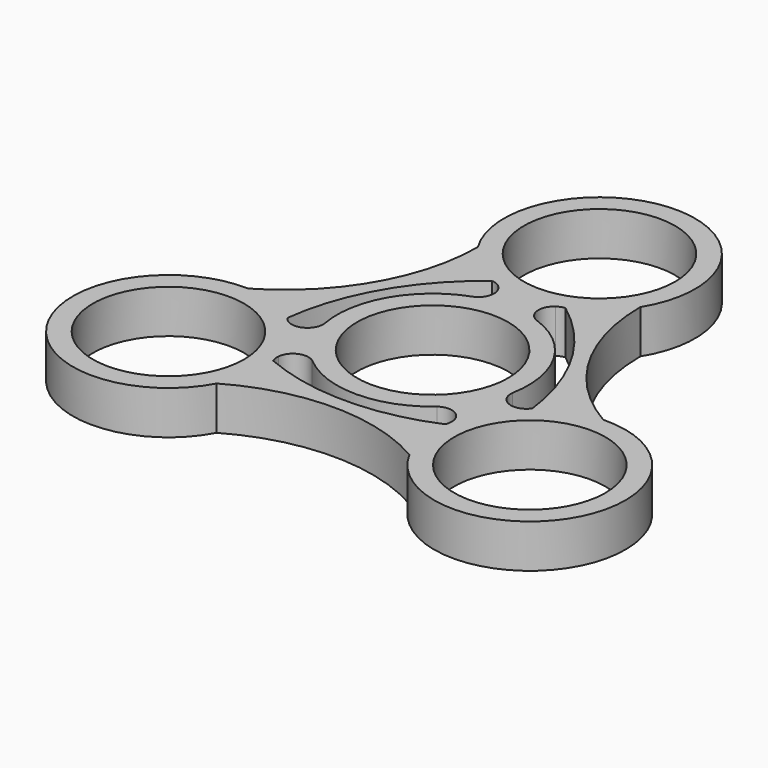
from build123d import *

# Parameters (mm, degrees)
F0_R     = 11.049
F1_DEPTH = 6.35


with BuildPart() as f1:
    # F0 (on Top) → F1 (new body)
    with BuildSketch(Plane.XY):
        with BuildLine():
            ThreePointArc((-14.078526, -21.830109), (0, -18.069067), (14.078526, -21.830109))
            ThreePointArc((14.078526, -21.830109), (38.494829, -22.225), (25.944692, -1.277306))
            ThreePointArc((25.944692, -1.277306), (15.648271, 9.034534), (11.866166, 23.107415))
            ThreePointArc((11.866166, 23.107415), (0, 44.45), (-11.866166, 23.107415))
            ThreePointArc((-11.866166, 23.107415), (-15.648271, 9.034534), (-25.944692, -1.277306))
            ThreePointArc((-25.944692, -1.277306), (-38.494829, -22.225), (-14.078526, -21.830109))
        make_face()
        with Locations((-26.396454, -15.24)):
            Circle(F0_R, mode=Mode.SUBTRACT)
        with BuildLine():
            ThreePointArc((-4.208703, 17.15905), (-3.25535, 15.05507), (-4.613117, 13.186358))
            ThreePointArc((-4.613117, 13.186358), (-12.098375, 6.985), (-13.72628, -2.598103))
            ThreePointArc((-13.72628, -2.598103), (-14.665748, -4.708319), (-16.964525, -4.934681))
            ThreePointArc((-16.964525, -4.934681), (-17.48494, -4.606139), (-17.89943, -4.1512))
            ThreePointArc((-17.89943, -4.1512), (-13.85397, 7.998594), (-5.354671, 17.576961))
            ThreePointArc((-5.354671, 17.576961), (-4.753437, 17.445472), (-4.208703, 17.15905))
        make_face(mode=Mode.SUBTRACT)
        with BuildLine():
            ThreePointArc((12.54476, -13.425761), (0, -15.997187), (-12.54476, -13.425761))
            ThreePointArc((-12.54476, -13.425761), (-12.731503, -12.839333), (-12.755821, -12.224369))
            ThreePointArc((-12.755821, -12.224369), (-11.410398, -10.346751), (-9.113163, -10.588256))
            ThreePointArc((-9.113163, -10.588256), (0, -13.97), (9.113163, -10.588256))
            ThreePointArc((9.113163, -10.588256), (11.410398, -10.346751), (12.755821, -12.224369))
            ThreePointArc((12.755821, -12.224369), (12.731503, -12.839333), (12.54476, -13.425761))
        make_face(mode=Mode.SUBTRACT)
        with Locations((26.396454, -15.24)):
            Circle(F0_R, mode=Mode.SUBTRACT)
        Circle(F0_R, mode=Mode.SUBTRACT)
        with BuildLine():
            ThreePointArc((5.354671, 17.576961), (13.85397, 7.998594), (17.89943, -4.1512))
            ThreePointArc((17.89943, -4.1512), (17.48494, -4.606139), (16.964525, -4.934681))
            ThreePointArc((16.964525, -4.934681), (14.665748, -4.708319), (13.72628, -2.598103))
            ThreePointArc((13.72628, -2.598103), (12.098375, 6.985), (4.613117, 13.186358))
            ThreePointArc((4.613117, 13.186358), (3.25535, 15.05507), (4.208703, 17.15905))
            ThreePointArc((4.208703, 17.15905), (4.753437, 17.445472), (5.354671, 17.576961))
        make_face(mode=Mode.SUBTRACT)
        with Locations((0, 30.48)):
            Circle(F0_R, mode=Mode.SUBTRACT)
    extrude(amount=F1_DEPTH)


solid = f1.part
